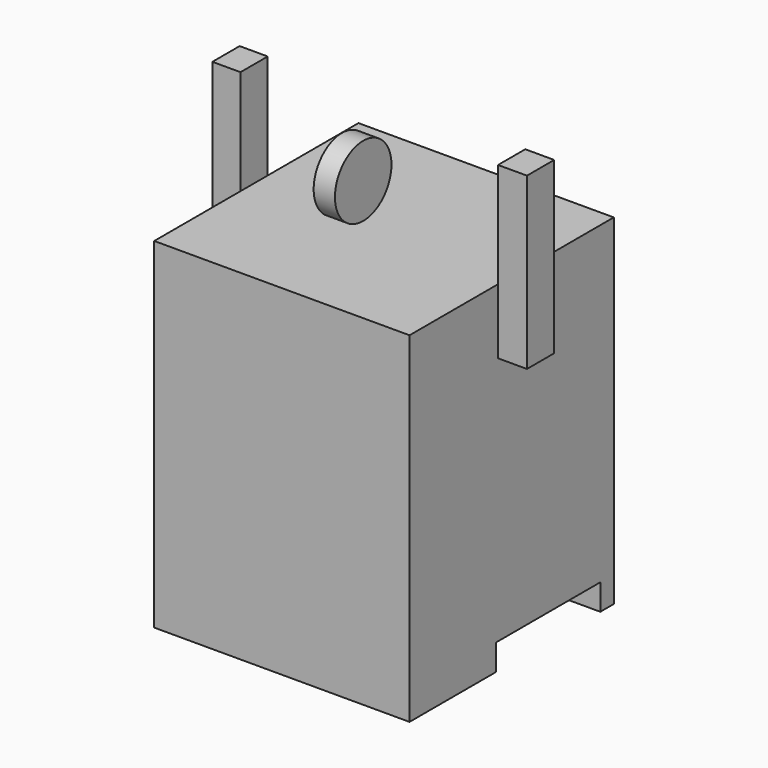
from build123d import *

# Parameters (mm, degrees)
F0_W      = 76.2
F0_H      = 101.6
F1_DEPTH  = 76.2
F2_DEPTH  = 76.2
F3_W      = 10.16
F3_H      = 50.8
F4_DEPTH  = 8.636
F5_W      = 10.16
F5_H      = 54.12841
F6_DEPTH  = 8.382
F7_W      = 38.827151
F7_H      = 7.764305
F8_DEPTH  = 50.8
F10_R     = 10.541303
F11_DEPTH = 6.35


with BuildPart() as f1:
    # F0 (on Front) → F1 (new body)
    with BuildSketch(Plane.XZ):
        with Locations((38.1, 50.8)):
            Rectangle(F0_W, F0_H)
    extrude(amount=-F1_DEPTH)

    # F0 (on Front) → F2 (join)
    with BuildSketch(Plane.XZ):
        with Locations((38.1, 50.8)):
            Rectangle(F0_W, F0_H)
    extrude(amount=-F2_DEPTH)

    # F3 (on face) → F4 (join)
    with BuildSketch(Plane.YZ.offset(76.2)):
        with Locations((38.1, 107.528254)):
            Rectangle(F3_W, F3_H)
    extrude(amount=F4_DEPTH)

    # F5 (on face) → F6 (join)
    with BuildSketch(Plane(origin=(0, 0, 0), x_dir=(0, -1, 0), z_dir=(-1, 0, 0))):
        with Locations((-37.253136, 105.810075)):
            Rectangle(F5_W, F5_H)
    extrude(amount=F6_DEPTH)

    # F7 (on face) → F8 (cut)
    with BuildSketch(Plane.YZ.offset(76.2)):
        with Locations((51.76542, 3.882152)):
            Rectangle(F7_W, F7_H)
    extrude(amount=-F8_DEPTH, mode=Mode.SUBTRACT)


with BuildPart() as f11:
    # F10 (on offset) → F11 (new body)
    with BuildSketch(Plane.YZ.offset(25.4)):
        with Locations((38.275972, 112.158)):
            Circle(F10_R)
    extrude(amount=F11_DEPTH)


solid = Compound([f1.part, f11.part])
